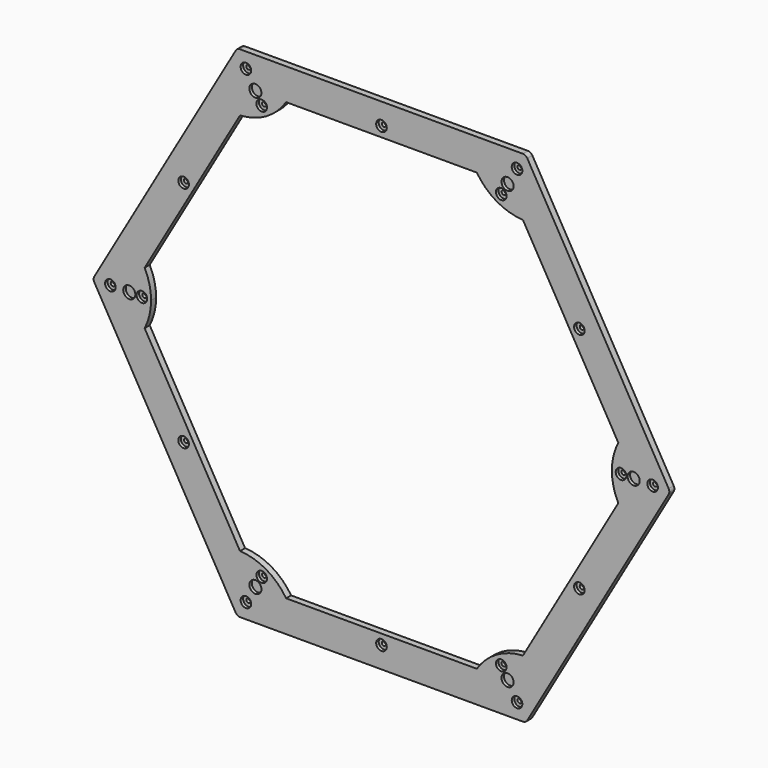
from build123d import *

# Parameters (mm, degrees)
F1_DEPTH = 3.175
F2_R     = 3.048
F3_DEPTH = 1.5875
F4_R     = 2.667
F4_R_2   = 1.0795
F4_R_3   = 1.143
F5_DEPTH = 1.5875
F6_DEPTH = 3.176
F7_R     = 2.54


with BuildPart() as f1:
    # F0 (on Front) → F1 (new body)
    with BuildSketch(Plane.XZ):
        with BuildLine():
            Line((43.2972506548, 125.73), (-43.2972506548, 125.73))
            ThreePointArc((-43.2972506548, 125.73), (-44.4901990258, 117.4555245289), (-47.971879227, 109.855))
            Line((-47.971879227, 109.855), (47.971879227, 109.855))
            ThreePointArc((47.971879227, 109.855), (44.4901990258, 117.4555245289), (43.2972506548, 125.73))
        make_face()
        with BuildLine():
            Line((-43.2972506548, 125.73), (-72.5902493452, 125.73))
            Line((-72.5902493452, 125.73), (-87.2367486904, 100.3615189811))
            ThreePointArc((-87.2367486904, 100.3615189811), (-79.474368544, 97.2574048402), (-71.1512811192, 96.4723660779))
            Line((-71.1512811192, 96.4723660779), (-63.4248138218, 109.855))
            Line((-63.4248138218, 109.855), (-47.971879227, 109.855))
            ThreePointArc((-47.971879227, 109.855), (-44.4901990258, 117.4555245289), (-43.2972506548, 125.73))
        make_face()
        with BuildLine():
            ThreePointArc((-71.1512811192, 96.4723660779), (-79.474368544, 97.2574048402), (-87.2367486904, 100.3615189811))
            Line((-87.2367486904, 100.3615189811), (-130.5339993452, 25.3684810189))
            ThreePointArc((-130.5339993452, 25.3684810189), (-123.9645675697, 20.1981196887), (-119.1231603462, 13.3826339221))
            Line((-119.1231603462, 13.3826339221), (-71.1512811192, 96.4723660779))
        make_face()
        with BuildLine():
            ThreePointArc((-119.1231603462, 13.3826339221), (-123.9645675697, 20.1981196887), (-130.5339993452, 25.3684810189))
            Line((-130.5339993452, 25.3684810189), (-145.1804986904, 0))
            Line((-145.1804986904, 0), (-130.5339993452, -25.3684810189))
            ThreePointArc((-130.5339993452, -25.3684810189), (-123.9645675697, -20.1981196887), (-119.1231603462, -13.3826339221))
            Line((-119.1231603462, -13.3826339221), (-126.8496276437, 0))
            Line((-126.8496276437, 0), (-119.1231603462, 13.3826339221))
        make_face()
        with BuildLine():
            ThreePointArc((-115.8875, 0), (-116.7079035306, 6.8841191987), (-119.1231603462, 13.3826339221))
            Line((-119.1231603462, 13.3826339221), (-126.8496276437, 0))
            Line((-126.8496276437, 0), (-119.1231603462, -13.3826339221))
            ThreePointArc((-119.1231603462, -13.3826339221), (-116.7079035306, -6.8841191987), (-115.8875, 0))
        make_face()
        with BuildLine():
            ThreePointArc((-71.1512811192, 96.4723660779), (-57.94375, 100.3615189811), (-47.971879227, 109.855))
            Line((-47.971879227, 109.855), (-63.4248138218, 109.855))
            Line((-63.4248138218, 109.855), (-71.1512811192, 96.4723660779))
        make_face()
        with BuildLine():
            Line((63.4248138218, 109.855), (47.971879227, 109.855))
            ThreePointArc((47.971879227, 109.855), (57.94375, 100.3615189811), (71.1512811192, 96.4723660779))
            Line((71.1512811192, 96.4723660779), (63.4248138218, 109.855))
        make_face()
        with BuildLine():
            Line((72.5902493452, 125.73), (43.2972506548, 125.73))
            ThreePointArc((43.2972506548, 125.73), (44.4901990258, 117.4555245289), (47.971879227, 109.855))
            Line((47.971879227, 109.855), (63.4248138218, 109.855))
            Line((63.4248138218, 109.855), (71.1512811192, 96.4723660779))
            ThreePointArc((71.1512811192, 96.4723660779), (79.474368544, 97.2574048402), (87.2367486904, 100.3615189811))
            Line((87.2367486904, 100.3615189811), (72.5902493452, 125.73))
        make_face()
        with BuildLine():
            Line((130.5339993452, 25.3684810189), (87.2367486904, 100.3615189811))
            ThreePointArc((87.2367486904, 100.3615189811), (79.474368544, 97.2574048402), (71.1512811192, 96.4723660779))
            Line((71.1512811192, 96.4723660779), (119.1231603462, 13.3826339221))
            ThreePointArc((119.1231603462, 13.3826339221), (123.9645675697, 20.1981196887), (130.5339993452, 25.3684810189))
        make_face()
        with BuildLine():
            Line((126.8496276437, 0), (119.1231603462, 13.3826339221))
            ThreePointArc((119.1231603462, 13.3826339221), (115.8875, 0), (119.1231603462, -13.3826339221))
            Line((119.1231603462, -13.3826339221), (126.8496276437, 0))
        make_face()
        with BuildLine():
            Line((145.1804986904, 0), (130.5339993452, 25.3684810189))
            ThreePointArc((130.5339993452, 25.3684810189), (123.9645675697, 20.1981196887), (119.1231603462, 13.3826339221))
            Line((119.1231603462, 13.3826339221), (126.8496276437, 0))
            Line((126.8496276437, 0), (119.1231603462, -13.3826339221))
            ThreePointArc((119.1231603462, -13.3826339221), (123.9645675697, -20.1981196887), (130.5339993452, -25.3684810189))
            Line((130.5339993452, -25.3684810189), (145.1804986904, 0))
        make_face()
        with BuildLine():
            ThreePointArc((130.5339993452, -25.3684810189), (123.9645675697, -20.1981196887), (119.1231603462, -13.3826339221))
            Line((119.1231603462, -13.3826339221), (71.1512811192, -96.4723660779))
            ThreePointArc((71.1512811192, -96.4723660779), (79.474368544, -97.2574048402), (87.2367486904, -100.3615189811))
            Line((87.2367486904, -100.3615189811), (130.5339993452, -25.3684810189))
        make_face()
        with BuildLine():
            ThreePointArc((47.971879227, -109.855), (44.4901990258, -117.4555245289), (43.2972506548, -125.73))
            Line((43.2972506548, -125.73), (72.5902493452, -125.73))
            Line((72.5902493452, -125.73), (87.2367486904, -100.3615189811))
            ThreePointArc((87.2367486904, -100.3615189811), (79.474368544, -97.2574048402), (71.1512811192, -96.4723660779))
            Line((71.1512811192, -96.4723660779), (63.4248138218, -109.855))
            Line((63.4248138218, -109.855), (47.971879227, -109.855))
        make_face()
        with BuildLine():
            Line((63.4248138218, -109.855), (71.1512811192, -96.4723660779))
            ThreePointArc((71.1512811192, -96.4723660779), (57.94375, -100.3615189811), (47.971879227, -109.855))
            Line((47.971879227, -109.855), (63.4248138218, -109.855))
        make_face()
        with BuildLine():
            ThreePointArc((-47.971879227, -109.855), (-44.4901990258, -117.4555245289), (-43.2972506548, -125.73))
            Line((-43.2972506548, -125.73), (43.2972506548, -125.73))
            ThreePointArc((43.2972506548, -125.73), (44.4901990258, -117.4555245289), (47.971879227, -109.855))
            Line((47.971879227, -109.855), (-47.971879227, -109.855))
        make_face()
        with BuildLine():
            ThreePointArc((-71.1512811192, -96.4723660779), (-79.474368544, -97.2574048402), (-87.2367486904, -100.3615189811))
            Line((-87.2367486904, -100.3615189811), (-72.5902493452, -125.73))
            Line((-72.5902493452, -125.73), (-43.2972506548, -125.73))
            ThreePointArc((-43.2972506548, -125.73), (-44.4901990258, -117.4555245289), (-47.971879227, -109.855))
            Line((-47.971879227, -109.855), (-63.4248138218, -109.855))
            Line((-63.4248138218, -109.855), (-71.1512811192, -96.4723660779))
        make_face()
        with BuildLine():
            ThreePointArc((-47.971879227, -109.855), (-57.94375, -100.3615189811), (-71.1512811192, -96.4723660779))
            Line((-71.1512811192, -96.4723660779), (-63.4248138218, -109.855))
            Line((-63.4248138218, -109.855), (-47.971879227, -109.855))
        make_face()
        with BuildLine():
            ThreePointArc((-119.1231603462, -13.3826339221), (-123.9645675697, -20.1981196887), (-130.5339993452, -25.3684810189))
            Line((-130.5339993452, -25.3684810189), (-87.2367486904, -100.3615189811))
            ThreePointArc((-87.2367486904, -100.3615189811), (-79.474368544, -97.2574048402), (-71.1512811192, -96.4723660779))
            Line((-71.1512811192, -96.4723660779), (-119.1231603462, -13.3826339221))
        make_face()
    extrude(amount=F1_DEPTH)

    # F2 (on face) → F3 (cut)
    with BuildSketch(Plane.XZ.offset(3.175)):
        with Locations((-63.4248138218, 109.855)):
            Circle(F2_R)
        with Locations((63.4248138218, 109.855)):
            Circle(F2_R)
        with Locations((-126.8496276437, 0)):
            Circle(F2_R)
        with Locations((-63.4248138218, -109.855)):
            Circle(F2_R)
        with Locations((63.4248138218, -109.855)):
            Circle(F2_R)
        with Locations((126.8496276437, 0)):
            Circle(F2_R)
    extrude(amount=-F3_DEPTH, mode=Mode.SUBTRACT)

    # F4 (on face) → F5 (cut)
    with BuildSketch(Plane.XZ.offset(3.175)):
        with Locations((-120.4996276437, 0)):
            Circle(F4_R)
        with Locations((-120.4996276437, 0)):
            Circle(F4_R_2, mode=Mode.SUBTRACT)
        with Locations((-60.2498138218, 104.355738686)):
            Circle(F4_R)
        with Locations((-60.2498138218, 104.355738686)):
            Circle(F4_R_2, mode=Mode.SUBTRACT)
        with Locations((60.2498138218, 104.355738686)):
            Circle(F4_R)
        with Locations((60.2498138218, 104.355738686)):
            Circle(F4_R_2, mode=Mode.SUBTRACT)
        with Locations((120.4996276437, 0)):
            Circle(F4_R)
        with Locations((120.4996276437, 0)):
            Circle(F4_R_2, mode=Mode.SUBTRACT)
        with Locations((60.2498138218, -104.355738686)):
            Circle(F4_R)
        with Locations((60.2498138218, -104.355738686)):
            Circle(F4_R_3, mode=Mode.SUBTRACT)
        with Locations((-60.2498138218, -104.355738686)):
            Circle(F4_R)
        with Locations((-60.2498138218, -104.355738686)):
            Circle(F4_R_2, mode=Mode.SUBTRACT)
        with Locations((-68.1873138218, -118.103891971)):
            Circle(F4_R)
        with Locations((-68.1873138218, -118.103891971)):
            Circle(F4_R_2, mode=Mode.SUBTRACT)
        with Locations((68.1873138218, -118.103891971)):
            Circle(F4_R)
        with Locations((68.1873138218, -118.103891971)):
            Circle(F4_R_2, mode=Mode.SUBTRACT)
        with Locations((136.3746276437, 0)):
            Circle(F4_R)
        with Locations((136.3746276437, 0)):
            Circle(F4_R_2, mode=Mode.SUBTRACT)
        with Locations((68.1873138218, 118.103891971)):
            Circle(F4_R)
        with Locations((68.1873138218, 118.103891971)):
            Circle(F4_R_2, mode=Mode.SUBTRACT)
        with Locations((-68.1873138218, 118.103891971)):
            Circle(F4_R)
        with Locations((-68.1873138218, 118.103891971)):
            Circle(F4_R_2, mode=Mode.SUBTRACT)
        with Locations((-136.3746276437, 0)):
            Circle(F4_R)
        with Locations((-136.3746276437, 0)):
            Circle(F4_R_2, mode=Mode.SUBTRACT)
        with Locations((-99.536629784, 57.4675)):
            Circle(F4_R)
        with Locations((-99.536629784, 57.4675)):
            Circle(F4_R_2, mode=Mode.SUBTRACT)
        with Locations((0, 114.935)):
            Circle(F4_R)
        with Locations((0, 114.935)):
            Circle(F4_R_2, mode=Mode.SUBTRACT)
        with Locations((99.536629784, 57.4675)):
            Circle(F4_R)
        with Locations((99.536629784, 57.4675)):
            Circle(F4_R_2, mode=Mode.SUBTRACT)
        with Locations((99.536629784, -57.4675)):
            Circle(F4_R)
        with Locations((99.536629784, -57.4675)):
            Circle(F4_R_2, mode=Mode.SUBTRACT)
        with Locations((0, -114.935)):
            Circle(F4_R)
        with Locations((0, -114.935)):
            Circle(F4_R_2, mode=Mode.SUBTRACT)
        with Locations((-99.536629784, -57.4675)):
            Circle(F4_R)
        with Locations((-99.536629784, -57.4675)):
            Circle(F4_R_2, mode=Mode.SUBTRACT)
    extrude(amount=-F5_DEPTH, mode=Mode.SUBTRACT)

    # F4 (on face) → F6 (cut, through all)
    with BuildSketch(Plane.XZ.offset(3.175)):
        with Locations((-60.2498138218, -104.355738686)):
            Circle(F4_R_2)
        with Locations((-120.4996276437, 0)):
            Circle(F4_R_2)
        with Locations((-60.2498138218, 104.355738686)):
            Circle(F4_R_2)
        with Locations((60.2498138218, 104.355738686)):
            Circle(F4_R_2)
        with Locations((120.4996276437, 0)):
            Circle(F4_R_2)
        with Locations((60.2498138218, -104.355738686)):
            Circle(F4_R_3)
        with Locations((-136.3746276437, 0)):
            Circle(F4_R_2)
        with Locations((-68.1873138218, -118.103891971)):
            Circle(F4_R_2)
        with Locations((68.1873138218, -118.103891971)):
            Circle(F4_R_2)
        with Locations((136.3746276437, 0)):
            Circle(F4_R_2)
        with Locations((68.1873138218, 118.103891971)):
            Circle(F4_R_2)
        with Locations((-68.1873138218, 118.103891971)):
            Circle(F4_R_2)
        with Locations((-99.536629784, 57.4675)):
            Circle(F4_R_2)
        with Locations((-99.536629784, -57.4675)):
            Circle(F4_R_2)
        with Locations((0, -114.935)):
            Circle(F4_R_2)
        with Locations((99.536629784, -57.4675)):
            Circle(F4_R_2)
        with Locations((99.536629784, 57.4675)):
            Circle(F4_R_2)
        with Locations((0, 114.935)):
            Circle(F4_R_2)
    extrude(amount=-F6_DEPTH, mode=Mode.SUBTRACT)

    # F7
    f7_edges = [f1.edges().sort_by_distance(p)[0] for p in [
        (-72.590249, -1.5875, 125.73),
        (72.590249, -1.5875, 125.73),
        (145.180499, -1.5875, 0),
        (72.590249, -1.5875, -125.73),
        (-72.590249, -1.5875, -125.73),
        (-145.180499, -1.5875, 0),
    ]]
    fillet(f7_edges, radius=F7_R)


solid = f1.part
